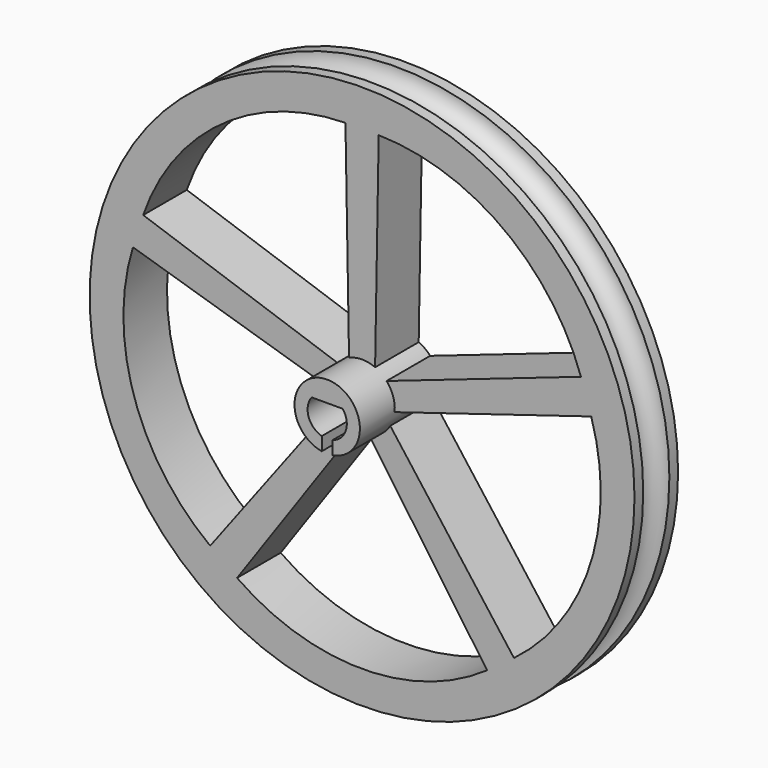
from build123d import *

# Parameters (mm, degrees)
BOX003_W                    = 10
BOX003_H                    = 10
BOX003_DEPTH                = 10
CYLINDER002_R               = 1.8
CYLINDER002_DEPTH           = 9
BOX030_W                    = 1
BOX030_H                    = 2
BOX030_DEPTH                = 9
CYLINDER010_R               = 3
CYLINDER010_DEPTH           = 9
CYLINDER012_W               = 20
CYLINDER012_H               = 10
CYLINDER012_ANGLE           = 70
CYLINDER012_PLACEMENT_ANGLE = 235
ARRAY_COUNT                 = 5
TORUS_R                     = 1.5
CYLINDER_R                  = 25
CYLINDER_DEPTH              = 5
CUT024_ROLL_ANGLE           = 90
CUT024_PLACEMENT_ANGLE      = 180
CLONE006_PLACEMENT_ANGLE    = 180


with BuildPart() as cube002:
    # Box003 → Box003 (new body)
    with BuildSketch(Plane(origin=(-3, 1.1, 0), x_dir=(1, 0, 0), z_dir=(0, 0, 1))):
        with Locations((5, 5)):
            Rectangle(BOX003_W, BOX003_H)
    extrude(amount=BOX003_DEPTH)


with BuildPart() as shafthole:
    # Cylinder002 → Cylinder002 (new body)
    with BuildSketch(Plane.XY):
        Circle(CYLINDER002_R)
    extrude(amount=CYLINDER002_DEPTH)

    # Cut002: cut Cube002
    add(cube002.part, mode=Mode.SUBTRACT)


with BuildPart() as fusion015:
    # Box030 → Box030 (new body)
    with BuildSketch(Plane(origin=(-0.5, -3.5, 0), x_dir=(1, 0, 0), z_dir=(0, 0, 1))):
        with Locations((0.5, 1)):
            Rectangle(BOX030_W, BOX030_H)
    extrude(amount=BOX030_DEPTH)

    # Fusion015: union shaftHole
    add(shafthole.part)


with BuildPart() as cylinder010:
    # Cylinder010 → Cylinder010 (new body)
    with BuildSketch(Plane.XY):
        Circle(CYLINDER010_R)
    extrude(amount=CYLINDER010_DEPTH)


with BuildPart() as array022:
    # Cylinder012 → Cylinder012 (revolve)
    with BuildSketch(Plane.XZ):
        with Locations((10, 5)):
            Rectangle(CYLINDER012_W, CYLINDER012_H)
    revolve(axis=Axis((0, 0, 0), (0, 0, 1)), revolution_arc=CYLINDER012_ANGLE)


with BuildPart() as array022_1:
    # Cylinder012 placement: moved
    add(array022.part.moved(Location((0, -2, 0))).rotate(Axis((0, -2, 0), (0, 0, 1)), CYLINDER012_PLACEMENT_ANGLE))

    # Array: Array022 ×5 about axis
    array_axis = Axis((0, 0, 0), (0, 0, 1))


with BuildPart() as array022_2:
    add(array022_1.part)
    for i in range(1, ARRAY_COUNT):
        add(array022_1.part.rotate(array_axis, i * 360 / ARRAY_COUNT))


with BuildPart() as torus:
    # Torus → Torus (revolve)
    with BuildSketch(Plane(origin=(0, 0, 2.5), x_dir=(1, 0, 0), z_dir=(0, -1, 0))):
        with Locations((25, 0)):
            Circle(TORUS_R)
    revolve(axis=Axis((0, 0, 2.5), (0, 0, 1)))


with BuildPart() as clone_of_wheel:
    # Cylinder → Cylinder (new body)
    with BuildSketch(Plane.XY):
        Circle(CYLINDER_R)
    extrude(amount=CYLINDER_DEPTH)

    # Cut001: cut Torus
    add(torus.part, mode=Mode.SUBTRACT)

    # Cut023: cut Array022
    add(array022_2.part, mode=Mode.SUBTRACT)

    # Fusion016: union Cylinder010
    add(cylinder010.part)

    # Cut024: cut Fusion015
    add(fusion015.part, mode=Mode.SUBTRACT)


with BuildPart() as clone_of_wheel_1:
    # Cut024 roll: moved
    add(clone_of_wheel.part.rotate(Axis((0, 0, 0), (1, 0, 0)), CUT024_ROLL_ANGLE))


with BuildPart() as clone_of_wheel_2:
    # Cut024 placement: moved
    add(clone_of_wheel_1.part.moved(Location((-10.9, -46, 9.8))).rotate(Axis((-10.9, -46, 9.8), (0, 0, 1)), CUT024_PLACEMENT_ANGLE))


with BuildPart() as clone_of_wheel_3:
    # Clone006 placement: moved
    add(clone_of_wheel_2.part.moved(Location((-21.8, 13, 0))).rotate(Axis((-21.8, 13, 0), (0, 0, 1)), CLONE006_PLACEMENT_ANGLE))


solid = clone_of_wheel_3.part
